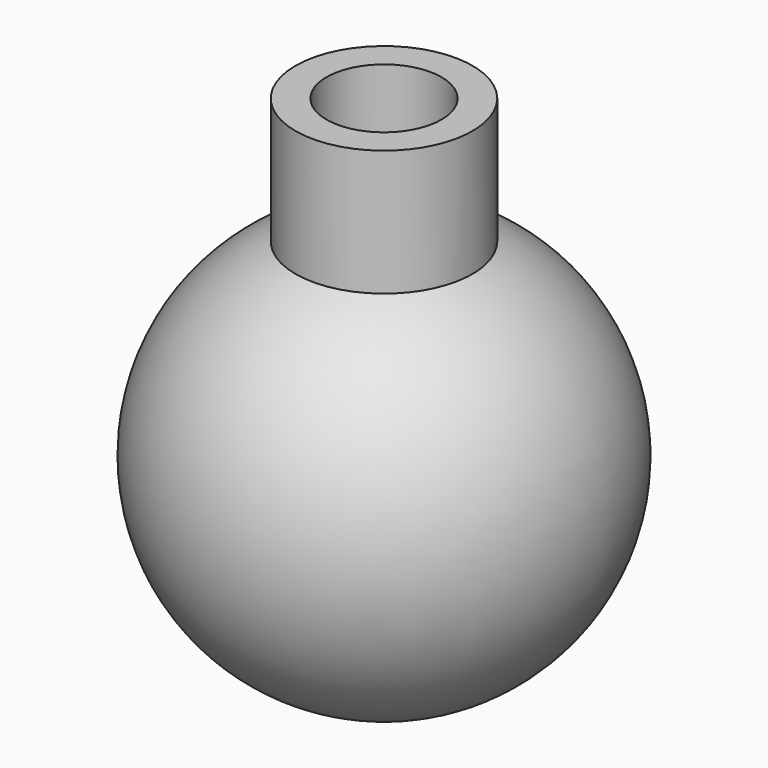
from build123d import *

# Parameters (mm, degrees)
F2_R     = 3.25
F3_DEPTH = 29.531188
F4_R     = 4.85
F5_DEPTH = 25


with BuildPart() as f1:
    # F0 (on Front) → F1 (revolve)
    with BuildSketch(Plane.XZ):
        with BuildLine():
            Line((0, -11.765188), (0, 0))
            Line((0, 0), (-5, 0))
            Line((-5, 0), (-5, 10.649866))
            ThreePointArc((-5, 10.649866), (-11.482973, -2.561442), (0, -11.765188))
        make_face()
        with BuildLine():
            Line((-5, 0), (0, 0))
            Line((0, 0), (0, 11.765188))
            ThreePointArc((0, 11.765188), (-2.561442, 11.482973), (-5, 10.649866))
            Line((-5, 10.649866), (-5, 0))
        make_face()
        with BuildLine():
            ThreePointArc((-5, 10.649866), (-2.561442, 11.482973), (0, 11.765188))
            Line((0, 11.765188), (0, 17.765))
            Line((0, 17.765), (-5, 17.765))
            Line((-5, 17.765), (-5, 10.649866))
        make_face()
    revolve(axis=Axis((0, 0, 8.8825), (0, 0, 1)))

    # F2 (on face) → F3 (cut, through all)
    with BuildSketch(Plane.XY.offset(17.765)):
        Circle(F2_R)
    extrude(amount=-F3_DEPTH, mode=Mode.SUBTRACT)

    # F4 (on Top) → F5 (cut)
    with BuildSketch(Plane.XY):
        Circle(F4_R)
    extrude(amount=-F5_DEPTH, mode=Mode.SUBTRACT)


solid = f1.part
